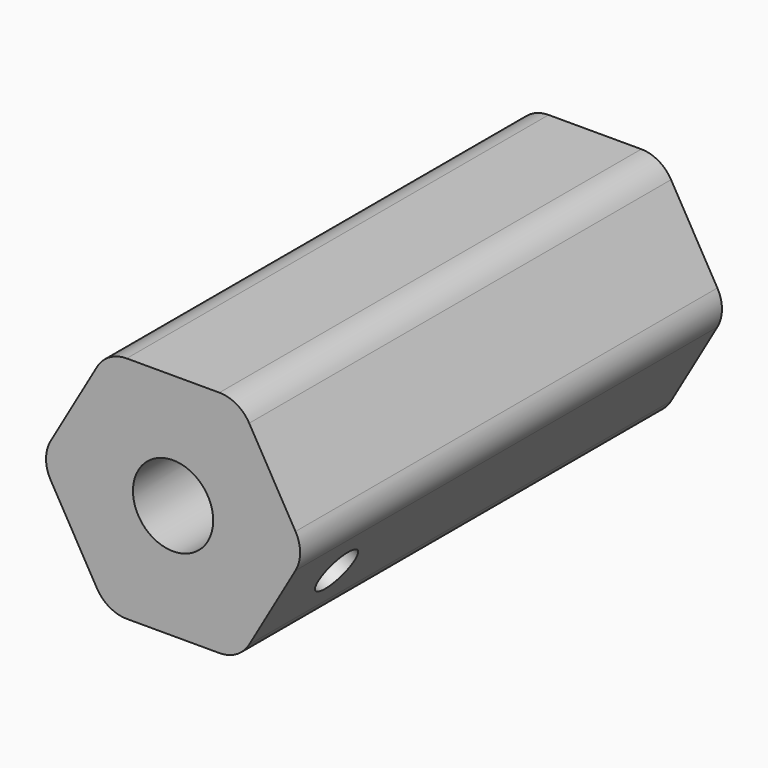
from build123d import *

# Parameters (mm, degrees)
F0_R     = 1.75
F1_DEPTH = 23
F2_R     = 1.5
F3_R     = 1
F4_DEPTH = 10


with BuildPart() as f1:
    # F0 (on Front) → F1 (new body)
    with BuildSketch(Plane.XZ):
        Polygon((-2.886751, 5), (-5.773503, 0), (-2.886751, -5), (2.886751, -5), (5.773503, 0), (2.886751, 5), align=None)
        Circle(F0_R, mode=Mode.SUBTRACT)
    extrude(amount=F1_DEPTH)

    # F2
    f2_edges = [f1.edges().sort_by_distance(p)[0] for p in [
        (2.886751, -11.5, 5),
        (-2.886751, -11.5, 5),
        (5.773503, -11.5, 0),
        (2.886751, -11.5, -5),
        (-2.886751, -11.5, -5),
        (-5.773503, -11.5, 0),
    ]]
    fillet(f2_edges, radius=F2_R)

    # F3 (on face) → F4 (cut, through all)
    with BuildSketch(Plane(origin=(4.330127, 0, -2.5), x_dir=(0, 1, 0), z_dir=(0.866025, 0, -0.5))):
        with Locations((-19.5, 0)):
            Circle(F3_R)
    extrude(amount=-F4_DEPTH, mode=Mode.SUBTRACT)


solid = f1.part
